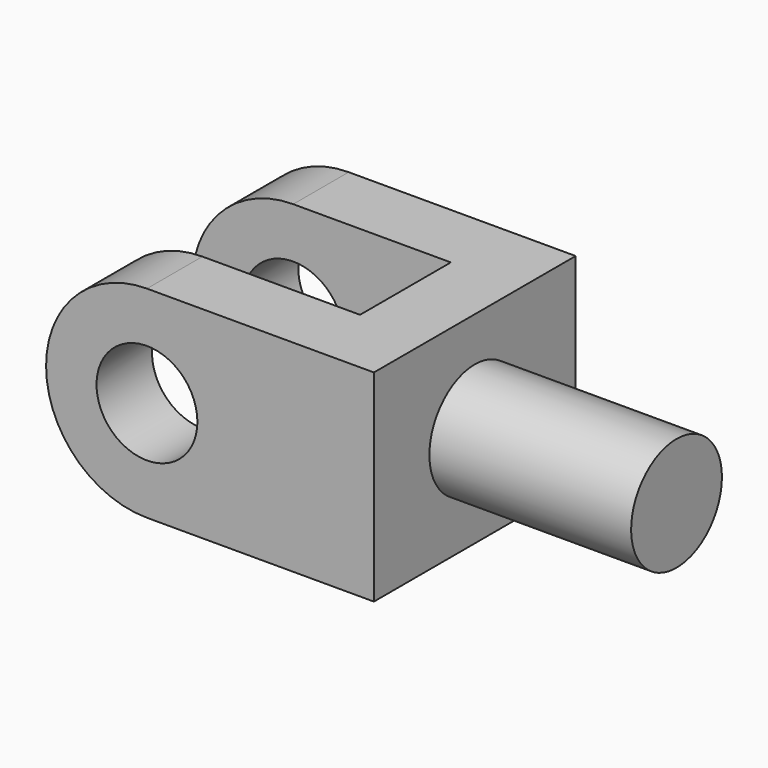
from build123d import *

# Parameters (mm, degrees)
F1_DEPTH  = 406.4
F2_DEPTH  = 406.4
F0_W      = 812.8
F0_H      = 457.2
F3_DEPTH  = 228.6
F4_DEPTH  = 228.6
F5_R      = 203.2
F6_DEPTH  = 1270
F8_DEPTH  = 1270
F10_DEPTH = 812.8


with BuildPart() as f1:
    # F0 (on Top) → F1 (new body)
    with BuildSketch(Plane.XY):
        Polygon((1320.8, 0), (0, 0), (0, -279.4), (1041.4, -279.4), (1041.4, -736.6), (0, -736.6), (0, -1016), (1320.8, -1016), (1320.8, -736.6), (1320.8, -279.4), align=None)
    extrude(amount=F1_DEPTH)

    # F0 (on Top) → F2 (join)
    with BuildSketch(Plane.XY):
        Polygon((1320.8, 0), (0, 0), (0, -279.4), (1041.4, -279.4), (1041.4, -736.6), (0, -736.6), (0, -1016), (1320.8, -1016), (1320.8, -736.6), (1320.8, -279.4), align=None)
    extrude(amount=-F2_DEPTH)

    # F0 (on Top) → F3 (join)
    with BuildSketch(Plane.XY):
        with Locations((1727.2, -508)):
            Rectangle(F0_W, F0_H)
    extrude(amount=F3_DEPTH)

    # F0 (on Top) → F4 (join)
    with BuildSketch(Plane.XY):
        with Locations((1727.2, -508)):
            Rectangle(F0_W, F0_H)
    extrude(amount=-F4_DEPTH)

    # F5 (on face) → F6 (cut)
    with BuildSketch(Plane.XZ.offset(1016)):
        with Locations((406.4, 0)):
            Circle(F5_R)
    extrude(amount=-F6_DEPTH, mode=Mode.SUBTRACT)

    # F7 (on face) → F8 (cut)
    with BuildSketch(Plane.XZ.offset(1016)):
        with BuildLine():
            ThreePointArc((0, -2.103e-07), (119.0318040514, 287.3681957999), (406.4, 406.4))
            Line((406.4, 406.4), (0, 406.4))
            Line((0, 406.4), (0, -2.103e-07))
        make_face()
        with BuildLine():
            Line((0, -406.4), (406.4, -406.4))
            ThreePointArc((406.4, -406.4), (119.0318042001, -287.3681959486), (0, -2.103e-07))
            Line((0, -2.103e-07), (0, -406.4))
        make_face()
    extrude(amount=-F8_DEPTH, mode=Mode.SUBTRACT)

    # F9 (on face) → F10 (cut)
    with BuildSketch(Plane.YZ.offset(2133.6)):
        with BuildLine():
            ThreePointArc((-736.6, -8.745e-07), (-669.6446104884, 161.6446098701), (-508, 228.6))
            Line((-508, 228.6), (-736.6, 228.6))
            Line((-736.6, 228.6), (-736.6, -8.745e-07))
        make_face()
        with BuildLine():
            ThreePointArc((-508, 228.6), (-346.3553898208, 161.6446101792), (-279.4, 0))
            Line((-279.4, 0), (-279.4, 228.6))
            Line((-279.4, 228.6), (-508, 228.6))
        make_face()
        with BuildLine():
            Line((-279.4, -228.6), (-279.4, 0))
            ThreePointArc((-279.4, 0), (-346.3553898208, -161.6446101792), (-508, -228.6))
            Line((-508, -228.6), (-279.4, -228.6))
        make_face()
        with BuildLine():
            Line((-736.6, -228.6), (-508, -228.6))
            ThreePointArc((-508, -228.6), (-669.6446098701, -161.6446104884), (-736.6, -8.745e-07))
            Line((-736.6, -8.745e-07), (-736.6, -228.6))
        make_face()
    extrude(amount=-F10_DEPTH, mode=Mode.SUBTRACT)


solid = f1.part
